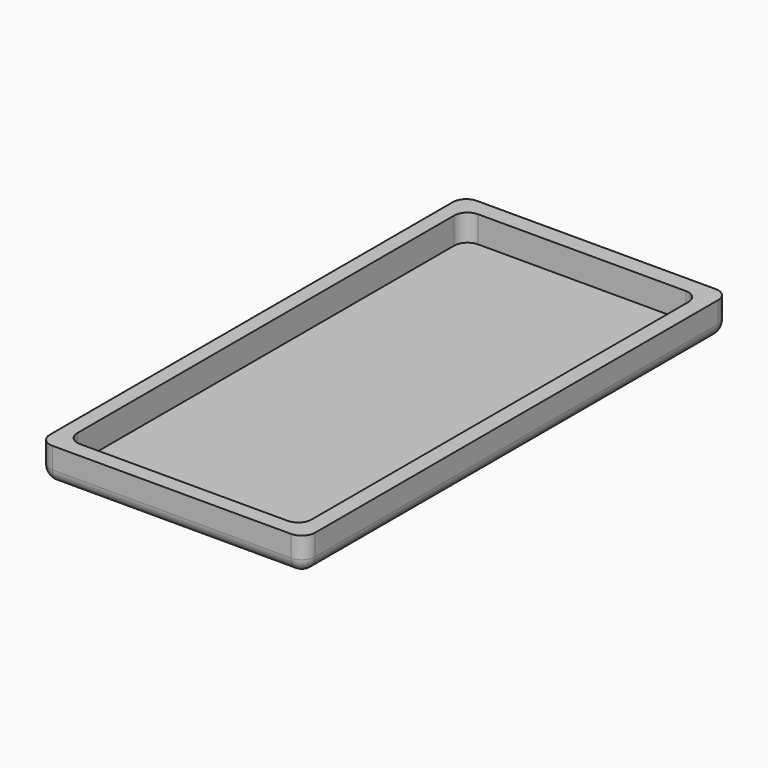
from build123d import *

# Parameters (mm, degrees)
F0_W     = 100
F0_H     = 200
F1_DEPTH = 13
F3_W     = 88.300774
F3_H     = 187.619995
F4_DEPTH = 10
F5_R     = 5
F6_R     = 5
F7_R     = 5
F8_R     = 5
F9_R     = 5
F10_R    = 5
F11_R    = 5
F12_R    = 5
F13_R    = 5


with BuildPart() as f1:
    # F0 (on Top) → F1 (new body)
    with BuildSketch(Plane.XY):
        with Locations((50, 100)):
            Rectangle(F0_W, F0_H)
    extrude(amount=F1_DEPTH)

    # F3 (on face) → F4 (cut)
    with BuildSketch(Plane.XY.offset(13)):
        with Locations((49.800339, 99.72308)):
            Rectangle(F3_W, F3_H)
    extrude(amount=-F4_DEPTH, mode=Mode.SUBTRACT)

    # F5
    f5_edges = [f1.edges().sort_by_distance(p)[0] for p in [
        (100, 200, 6.5),
    ]]
    fillet(f5_edges, radius=F5_R)

    # F6
    f6_edges = [f1.edges().sort_by_distance(p)[0] for p in [
        (0, 200, 6.5),
    ]]
    fillet(f6_edges, radius=F6_R)

    # F7
    f7_edges = [f1.edges().sort_by_distance(p)[0] for p in [
        (100, 0, 6.5),
    ]]
    fillet(f7_edges, radius=F7_R)

    # F8
    f8_edges = [f1.edges().sort_by_distance(p)[0] for p in [
        (0, 0, 6.5),
    ]]
    fillet(f8_edges, radius=F8_R)

    # F9
    f9_edges = [f1.edges().sort_by_distance(p)[0] for p in [
        (5.649952, 5.913083, 8),
    ]]
    fillet(f9_edges, radius=F9_R)

    # F10
    f10_edges = [f1.edges().sort_by_distance(p)[0] for p in [
        (5.649952, 193.533078, 8),
    ]]
    fillet(f10_edges, radius=F10_R)

    # F11
    f11_edges = [f1.edges().sort_by_distance(p)[0] for p in [
        (93.950726, 193.533078, 8),
    ]]
    fillet(f11_edges, radius=F11_R)

    # F12
    f12_edges = [f1.edges().sort_by_distance(p)[0] for p in [
        (93.950726, 5.913083, 8),
    ]]
    fillet(f12_edges, radius=F12_R)

    # F13
    f13_edges = [f1.edges().sort_by_distance(p)[0] for p in [
        (0, 100, 0),
    ]]
    fillet(f13_edges, radius=F13_R)


solid = f1.part
